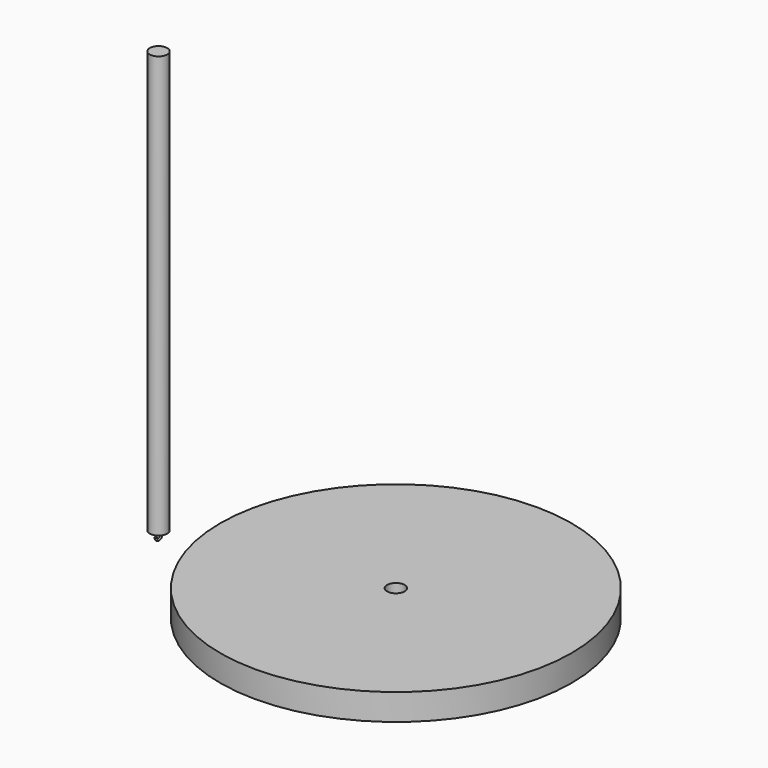
from build123d import *

# Parameters (mm, degrees)
F0_R     = 6.35
F1_DEPTH = 304.8
F0_R_2   = 127
F2_DEPTH = 19.05
F4_R     = 0.635


with BuildPart() as f1:
    # F0 (on Top) → F1 (new body)
    with BuildSketch(Plane.XY):
        Circle(F0_R)
    extrude(amount=F1_DEPTH)

    # F5: sweep along a path in F3
    with BuildLine(Plane.YZ) as f5_path:
        Line((0, 0), (0, -0.254))
        ThreePointArc((0, -0.254), (0.143131115, -0.6556092628), (0.508, -0.8761703947))
        ThreePointArc((0.508, -0.8761703947), (1.6064370514, -5.3323275132), (-2.54, -3.3648519733))
    # F4 (on face) → F5 (sweep)
    with BuildSketch(Plane.XY):
        Circle(F4_R)
    sweep(path=f5_path.line)


with BuildPart() as f2:
    # F0 (on Top) → F2 (new body)
    with BuildSketch(Plane.XY):
        with Locations((171.5635806322, 0)):
            Circle(F0_R_2)
        with Locations((171.5635806322, 0)):
            Circle(F0_R, mode=Mode.SUBTRACT)
    extrude(amount=F2_DEPTH)


solid = Compound([f1.part, f2.part])
